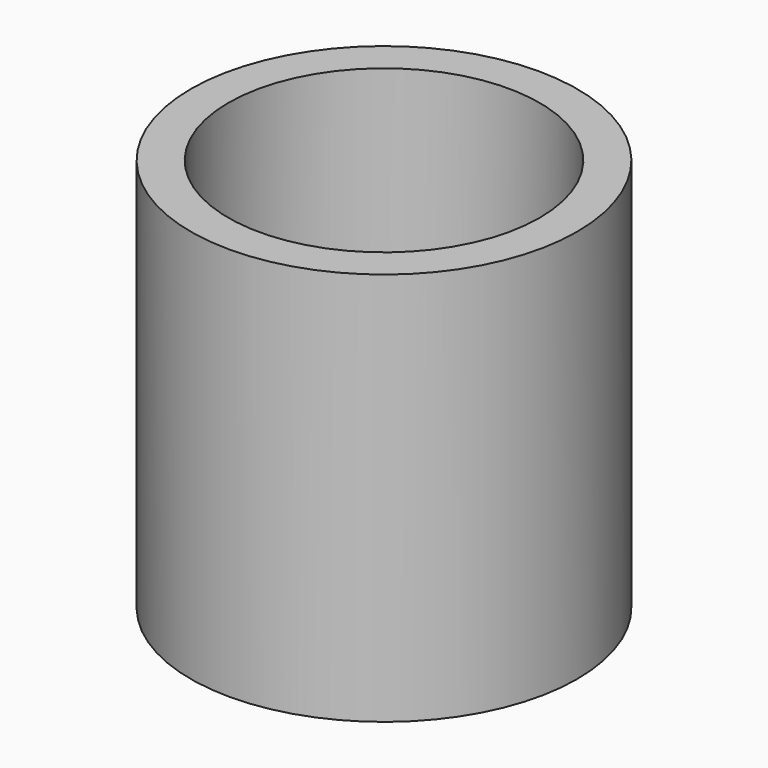
from build123d import *

# Parameters (mm, degrees)
F0_R     = 126.1012102306
F1_DEPTH = 106.68
F2_D     = 203.2
F3_DEPTH = 150.368


with BuildPart() as f1:
    # F0 (on Top) → F1 (new body)
    with BuildSketch(Plane.XY):
        Circle(F0_R)
    extrude(amount=F1_DEPTH)

    # F2 (through all)
    with Locations(Plane(origin=(0, 0, 0), x_dir=(1, 0, 0), z_dir=(0, 0, -1))):
        with Locations((0, 0)):
            Hole(F2_D / 2)

    # F3 (add): a face of the model
    f3_faces = [f1.faces().sort_by_distance(p)[0] for p in [
        (-122.5345293958, 0, 106.68),
    ]]
    extrude(f3_faces, amount=F3_DEPTH)


solid = f1.part
